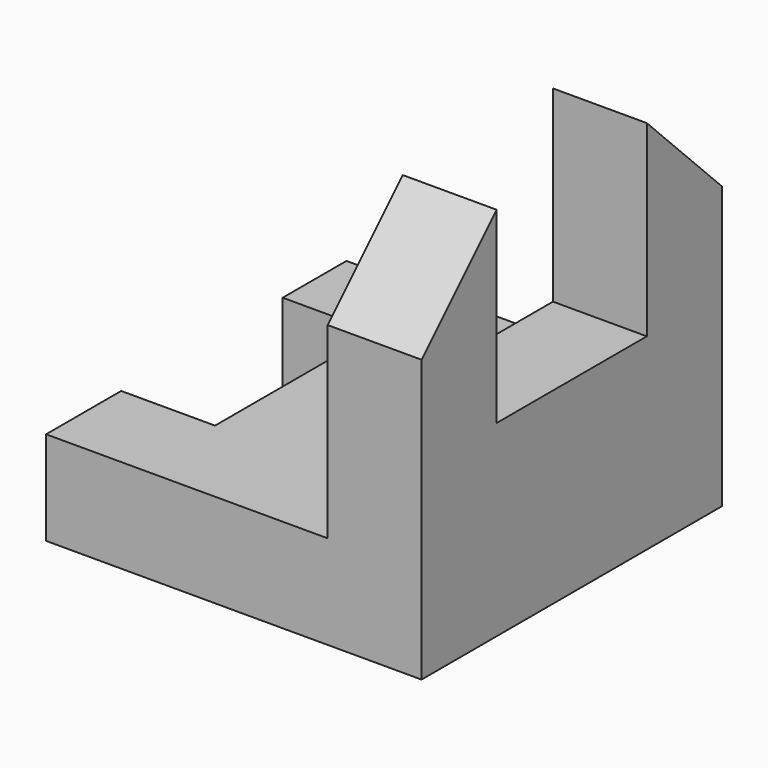
from build123d import *

# Parameters (mm, degrees)
F0_W     = 101.6
F0_H     = 101.6
F1_DEPTH = 101.6
F2_W     = 76.2
F2_H     = 76.2
F3_DEPTH = 168.91
F4_W     = 25.4
F4_H     = 54.637392
F5_DEPTH = 81.026
F7_DEPTH = 51.562


with BuildPart() as f1:
    # F0 (on Top) → F1 (new body)
    with BuildSketch(Plane.XY):
        with Locations((-50.8, -50.8)):
            Rectangle(F0_W, F0_H)
    extrude(amount=F1_DEPTH)

    # F2 (on face) → F3 (cut)
    with BuildSketch(Plane.XZ.offset(101.6)):
        with Locations((-63.5, 63.5)):
            Rectangle(F2_W, F2_H)
    extrude(amount=-F3_DEPTH, mode=Mode.SUBTRACT)

    # F4 (on face) → F5 (cut)
    with BuildSketch(Plane.XY.offset(25.4)):
        with Locations((-88.9, -48.881304)):
            Rectangle(F4_W, F4_H)
    extrude(amount=-F5_DEPTH, mode=Mode.SUBTRACT)

    # F6 (on face) → F7 (cut)
    with BuildSketch(Plane(origin=(-25.4, 0, 0), x_dir=(0, -1, 0), z_dir=(-1, 0, 0))):
        Polygon((25.4, 101.6), (0, 101.6), (0, 76.2), align=None)
        Polygon((101.6, 101.6), (76.2, 101.6), (101.6, 76.2), align=None)
        Polygon((76.2, 101.6), (25.4, 101.6), (25.4, 76.2), (25.4, 50.8), (76.2, 50.8), (76.2, 76.2), align=None)
    extrude(amount=-F7_DEPTH, mode=Mode.SUBTRACT)


solid = f1.part
